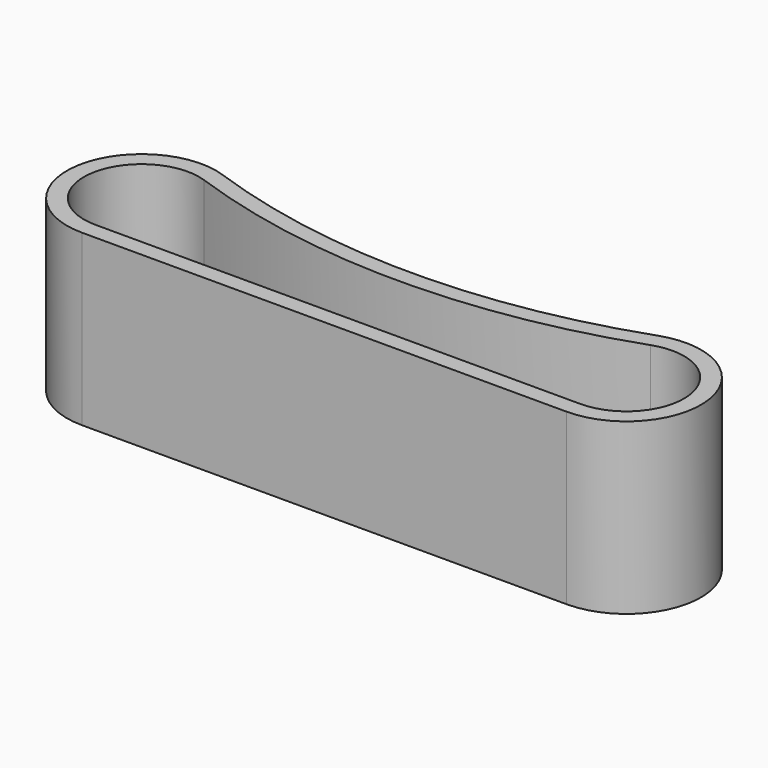
from build123d import *

# Parameters (mm, degrees)
F1_DEPTH = 10


with BuildPart() as f1:
    # F0 (on Top) → F1 (new body)
    with BuildSketch(Plane.XY):
        with BuildLine():
            ThreePointArc((-114.911513, -3.42815), (-127.747782, -5.627341), (-140.584051, -3.42815))
            ThreePointArc((-140.584051, -3.42815), (-146.385542, -6.834202), (-142.04873, -11.977212))
            Line((-142.04873, -11.977212), (-113.446833, -11.977212))
            ThreePointArc((-113.446833, -11.977212), (-109.110022, -6.834202), (-114.911513, -3.42815))
        make_face()
        with BuildLine():
            Line((-113.446833, -10.977212), (-142.04873, -10.977212))
            ThreePointArc((-142.04873, -10.977212), (-145.399903, -7.003068), (-140.916932, -4.371119))
            ThreePointArc((-140.916932, -4.371119), (-127.747782, -6.627341), (-114.578631, -4.371119))
            ThreePointArc((-114.578631, -4.371119), (-110.095661, -7.003068), (-113.446833, -10.977212))
        make_face(mode=Mode.SUBTRACT)
    extrude(amount=F1_DEPTH)


solid = f1.part
